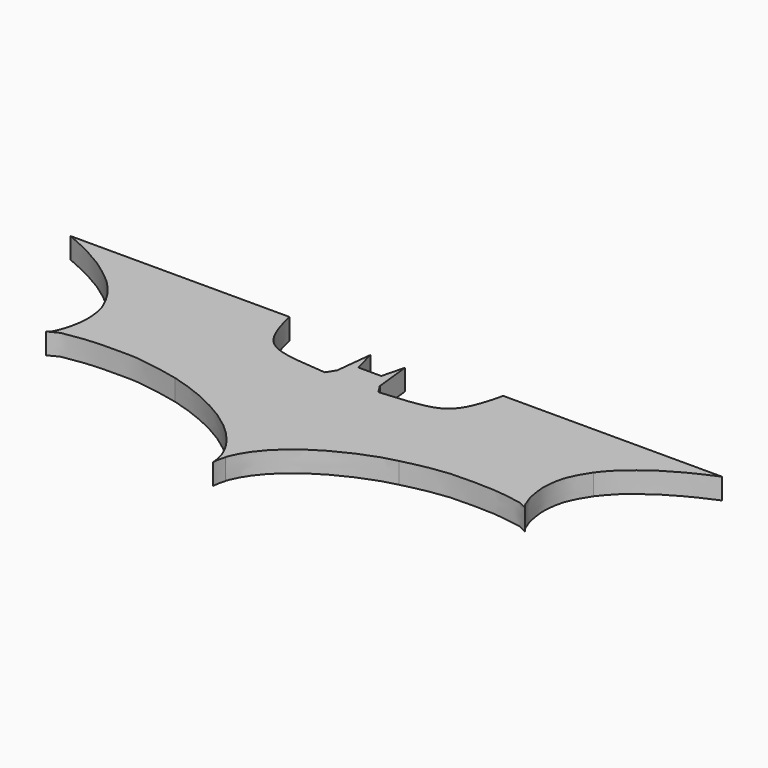
from build123d import *

# Parameters (mm, degrees)
F1_DEPTH = 4.064


with BuildPart() as f1:
    # F0 (on Top) → F1 (new body)
    with BuildSketch(Plane.XY):
        with BuildLine():
            Line((13.6671597138, 42.632304132), (12.8873176873, 49.7349761426))
            Line((12.8873176873, 49.7349761426), (11.7750391364, 45.363266021))
            Line((11.7750391364, 45.363266021), (9.6299545839, 45.363266021))
            Line((9.6299545839, 45.363266021), (9.5376307145, 45.363266021))
            Line((9.5376307145, 45.363266021), (9.445306845, 45.363266021))
            Line((9.445306845, 45.363266021), (7.3002222925, 45.363266021))
            Line((7.3002222925, 45.363266021), (6.1879437417, 49.7349761426))
            Line((6.1879437417, 49.7349761426), (5.4081017151, 42.632304132))
            Line((5.4081017151, 42.632304132), (4.3431557715, 40.9597270191))
            add(Edge.make_bspline(
                [(4.3431557715, 40.9597270191), (1.9470362998, 41.1418379201), (-2.357038673, 41.4689580744), (-6.9601017508, 42.5573058945), (-9.7806573386, 45.8408531237), (-11.222149647, 51.6629143973), (-11.1291911453, 51.8044307828)],
                knots=[0, 0, 0, 0, 0.2791440222, 0.5014177355, 0.7333883427, 0.9815334433, 0.9815334433, 0.9815334433, 0.9815334433], degree=3))
            Line((-11.1291911453, 51.8044307828), (-53.5737704486, 51.8044307828))
            add(Edge.make_bspline(
                [(-53.5737704486, 51.8044307828), (-53.331550141, 51.6895557808), (-52.7337940502, 51.4060649668), (-50.9219179894, 50.6256536216), (-49.0522210727, 49.7426960013), (-46.5670205655, 48.3883088566), (-44.0019337549, 46.8397463887), (-41.3899670191, 44.7566613363), (-39.9614993816, 43.5732234586), (-38.4642324185, 41.9185011416), (-37.8183975035, 41.0877673058), (-37.5235918909, 40.7085604966)],
                knots=[0, 0, 0, 0, 0.0720465987, 0.1777980287, 0.2890758676, 0.4160349982, 0.5505153507, 0.6884386234, 0.7936780409, 0.9058197844, 1, 1, 1, 1], degree=3))
            add(Edge.make_bspline(
                [(-37.5235918909, 40.7085604966), (-37.2811948097, 40.3417350246), (-36.7727730223, 39.572327814), (-35.9997815422, 38.1522405248), (-35.1818151491, 36.362725978), (-34.8165629489, 34.4825183921), (-34.6421546924, 32.8488236867), (-34.6606346519, 31.2214463286), (-34.9793113173, 29.4064345295), (-35.2129943023, 28.111564098), (-35.9426425608, 26.2262566595), (-36.1784507702, 25.8278168456), (-36.262312904, 25.6861168891)],
                knots=[0, 0, 0, 0, 0.0927914954, 0.1946278301, 0.3073288384, 0.4182534795, 0.520402479, 0.6230535978, 0.7301202583, 0.8256545016, 0.9379962828, 1, 1, 1, 1], degree=3))
            Line((-36.262312904, 25.6861168891), (-36.9484815747, 25.0586289912))
            add(Edge.make_bspline(
                [(-36.9484815747, 25.0586289912), (-36.2927983345, 25.4205569717), (-35.2230048161, 26.0110680355), (-34.4440105433, 26.1610657915), (-32.5025116368, 26.4697436316), (-30.2089582356, 26.8154999431), (-26.7915939584, 26.9803785335), (-23.4060896846, 26.9492345331), (-21.4941127934, 26.9466449845), (-18.9895672442, 26.7117037325), (-15.2690707432, 26.0406941434), (-13.1709685572, 25.5797541049), (-12.168219313, 25.3594563147)],
                knots=[0, 0, 0, 0, 0.0900102597, 0.1468580962, 0.2340180307, 0.333396138, 0.4533337916, 0.5714198117, 0.6591745985, 0.7598521597, 0.8852257688, 1, 1, 1, 1], degree=3))
            add(Edge.make_bspline(
                [(-12.168219313, 25.3594563147), (-11.5927154739, 25.2013632729), (-10.3185449844, 24.8513439076), (-7.6750947876, 23.9458975941), (-5.5408645813, 23.0804982874), (-3.7358019992, 22.2160027355), (-2.121426525, 21.3894995265), (-0.3086467266, 20.3773885972), (1.9186226291, 18.8653724774), (3.8473616626, 17.3192025529), (5.4318073678, 15.7795195321), (6.8297771435, 14.132580906), (7.8709295154, 12.5955164802), (8.6203443926, 11.1860368327), (9.0868606877, 9.9440901455), (9.0772179693, 9.9067459923), (9.0760700405, 9.9023003131)],
                knots=[0, 0, 0, 0, 0.073116965, 0.1618815945, 0.2432672502, 0.3176519131, 0.3885252589, 0.4648909183, 0.5521919339, 0.6359509825, 0.7147565687, 0.7925888029, 0.8643737633, 0.9350621826, 0.9922694003, 1, 1, 1, 1], degree=3))
            add(Edge.make_bspline(
                [(9.0760700405, 9.9023003131), (9.137154494, 9.657856123), (9.2679873126, 9.1342970084), (9.4896489626, 8.1212998598), (9.5225281441, 7.6083459483), (9.5376307145, 7.3727280833)],
                knots=[0, 0, 0, 0, 0.3213460752, 0.6882702612, 1, 1, 1, 1], degree=3))
            add(Edge.make_bspline(
                [(9.9991913885, 9.9023003131), (9.938106935, 9.657856123), (9.8072741164, 9.1342970084), (9.5856124664, 8.1212998598), (9.5527332849, 7.6083459483), (9.5376307145, 7.3727280833)],
                knots=[0, 0, 0, 0, 0.3213460752, 0.6882702612, 1, 1, 1, 1], degree=3))
            add(Edge.make_bspline(
                [(31.3012346565, 25.2954269687), (30.7202419304, 25.1358261093), (29.379202367, 24.8929209133), (26.7563461994, 23.9357044231), (24.6147259112, 23.08288084), (22.8114042768, 22.2154227122), (21.1965911316, 21.3896642896), (19.3839392402, 20.3773356985), (17.1566303783, 18.8653868158), (15.2279018497, 17.3191989823), (13.6434534859, 15.779520599), (12.2454845603, 14.1325801248), (11.2043313904, 12.5955184335), (10.4549187001, 11.1860304057), (9.9883976023, 9.9441023012), (9.9980443233, 9.9067426475), (9.9991913885, 9.9023003131)],
                knots=[0, 0, 0, 0, 0.0738143205, 0.1625121665, 0.2438365904, 0.3181652888, 0.3889853118, 0.4652935163, 0.5525288496, 0.6362248807, 0.7149711762, 0.7927448521, 0.8644758039, 0.9351110396, 0.9922752165, 1, 1, 1, 1], degree=3))
            add(Edge.make_bspline(
                [(55.8391954986, 25.1604420744), (55.246479862, 25.4870860225), (54.2702798275, 26.0164091642), (53.5192238195, 26.1610914996), (51.5777860665, 26.4697420881), (49.2842349376, 26.8154654043), (45.8667598685, 26.9805498729), (42.4816667945, 26.9486749581), (40.5684752021, 26.9482375341), (38.0691959493, 26.7039679144), (34.3327479962, 26.0774511266), (32.2980847571, 25.5144287536), (31.3012346565, 25.2954269687)],
                knots=[0.008454002, 0.008454002, 0.008454002, 0.008454002, 0.0900789157, 0.1469701134, 0.23419653, 0.3336504387, 0.4536795757, 0.5718556669, 0.6596773895, 0.7604317432, 0.8859009821, 1, 1, 1, 1], degree=3))
            add(Edge.make_bspline(
                [(55.337574333, 25.6861168891), (55.5330474391, 25.4694040439), (55.7124456782, 25.2762853184), (55.8391954986, 25.1604420744)],
                knots=[0, 0, 0, 0, 0.5157653391, 0.5157653391, 0.5157653391, 0.5157653391], degree=3))
            add(Edge.make_bspline(
                [(56.5988533199, 40.7085604966), (56.3564562387, 40.3417350246), (55.8480344512, 39.572327814), (55.0750429712, 38.1522405248), (54.257076578, 36.362725978), (53.8918243778, 34.4825183921), (53.7174161213, 32.8488236867), (53.7358960808, 31.2214463286), (54.0545727462, 29.4064345295), (54.2882557312, 28.111564098), (55.0179039898, 26.2262566595), (55.2537121991, 25.8278168456), (55.337574333, 25.6861168891)],
                knots=[0, 0, 0, 0, 0.0927914954, 0.1946278301, 0.3073288384, 0.4182534795, 0.520402479, 0.6230535978, 0.7301202583, 0.8256545016, 0.9379962828, 1, 1, 1, 1], degree=3))
            add(Edge.make_bspline(
                [(72.6490318775, 51.8044307828), (72.4068115699, 51.6895557808), (71.8090554792, 51.4060649668), (69.9971794183, 50.6256536216), (68.1274825017, 49.7426960013), (65.6422819945, 48.3883088566), (63.0771951838, 46.8397463887), (60.4652284481, 44.7566613363), (59.0367608106, 43.5732234586), (57.5394938475, 41.9185011416), (56.8936589325, 41.0877673058), (56.5988533199, 40.7085604966)],
                knots=[0, 0, 0, 0, 0.0720465987, 0.1777980287, 0.2890758676, 0.4160349982, 0.5505153507, 0.6884386234, 0.7936780409, 0.9058197844, 1, 1, 1, 1], degree=3))
            Line((72.6490318775, 51.8044307828), (30.2044525743, 51.8044307828))
            add(Edge.make_bspline(
                [(14.7321056575, 40.9597270191), (17.1282251292, 41.1418379201), (21.4323001019, 41.4689580744), (26.0353631797, 42.5573058945), (28.8559187675, 45.8408531237), (30.2974110759, 51.6629143973), (30.2044525743, 51.8044307828)],
                knots=[0, 0, 0, 0, 0.2791440222, 0.5014177355, 0.7333883427, 0.9815334433, 0.9815334433, 0.9815334433, 0.9815334433], degree=3))
            Line((14.7321056575, 40.9597270191), (13.6671597138, 42.632304132))
        make_face()
    extrude(amount=F1_DEPTH)


solid = f1.part
